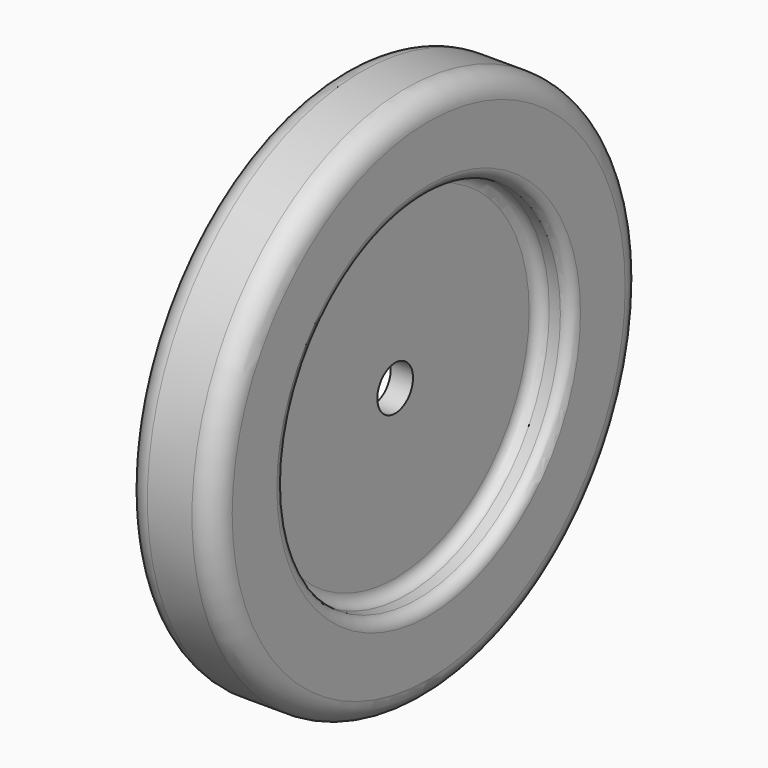
from build123d import *

# Parameters (mm, degrees)
F0_R     = 25.4
F0_R_2   = 3.175
F1_DEPTH = 1.5875
F0_R_3   = 38.1
F2_DEPTH = 6.35
F3_R     = 3.175
F4_R     = 1.5875


with BuildPart() as f1:
    # F0 (on Right) → F1 (new body, symmetric)
    with BuildSketch(Plane.YZ):
        Circle(F0_R)
        Circle(F0_R_2, mode=Mode.SUBTRACT)
    extrude(amount=F1_DEPTH, both=True)

    # F0 (on Right) → F2 (join, symmetric)
    with BuildSketch(Plane.YZ):
        Circle(F0_R_3)
        Circle(F0_R, mode=Mode.SUBTRACT)
    extrude(amount=F2_DEPTH, both=True)

    # F3
    f3_edges = [f1.edges().sort_by_distance(p)[0] for p in [
        (-6.35, -38.1, 0),
        (6.35, -38.1, 0),
    ]]
    fillet(f3_edges, radius=F3_R)

    # F4
    f4_edges = [f1.edges().sort_by_distance(p)[0] for p in [
        (1.5875, -25.4, 0),
        (6.35, -25.4, 0),
        (-1.5875, -25.4, 0),
        (-6.35, -25.4, 0),
    ]]
    fillet(f4_edges, radius=F4_R)


solid = f1.part
